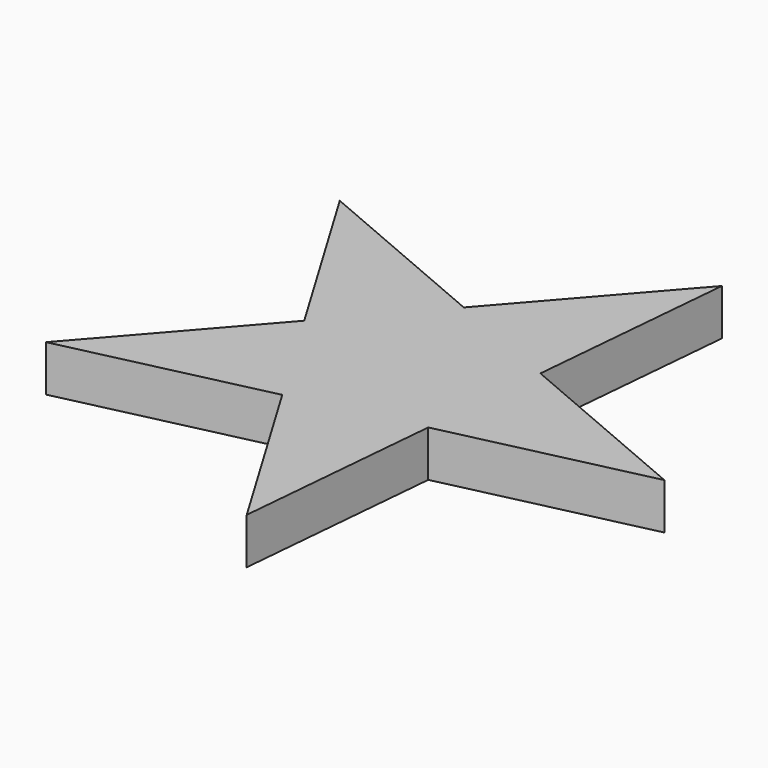
from build123d import *

# Parameters (mm, degrees)
F1_DEPTH = 6.35


with BuildPart() as f1:
    # F0 (on Top) → F1 (new body)
    with BuildSketch(Plane.XY):
        Polygon((-14.7529365335, 1.3235569542), (-5.8176855718, -13.6218748328), (11.1574091143, -9.7423385914), (12.7133436308, 7.6007784534), (-3.3001306398, 14.4398780166), align=None)
        Polygon((12.7133436308, 7.6007784534), (11.1574091143, -9.7423385914), (38.6236892786, -3.4651170922), align=None)
        Polygon((-5.8176855718, -13.6218748328), (8.6398541823, -37.8040914407), (11.1574091143, -9.7423385914), align=None)
        Polygon((-33.2839657361, -19.899096332), (-5.8176855718, -13.6218748328), (-14.7529365335, 1.3235569542), align=None)
        Polygon((-29.2104762876, 25.5057735621), (-14.7529365335, 1.3235569542), (-3.3001306398, 14.4398780166), align=None)
        Polygon((-3.3001306398, 14.4398780166), (12.7133436308, 7.6007784534), (15.2308985628, 35.6625313028), align=None)
    extrude(amount=F1_DEPTH)


solid = f1.part
